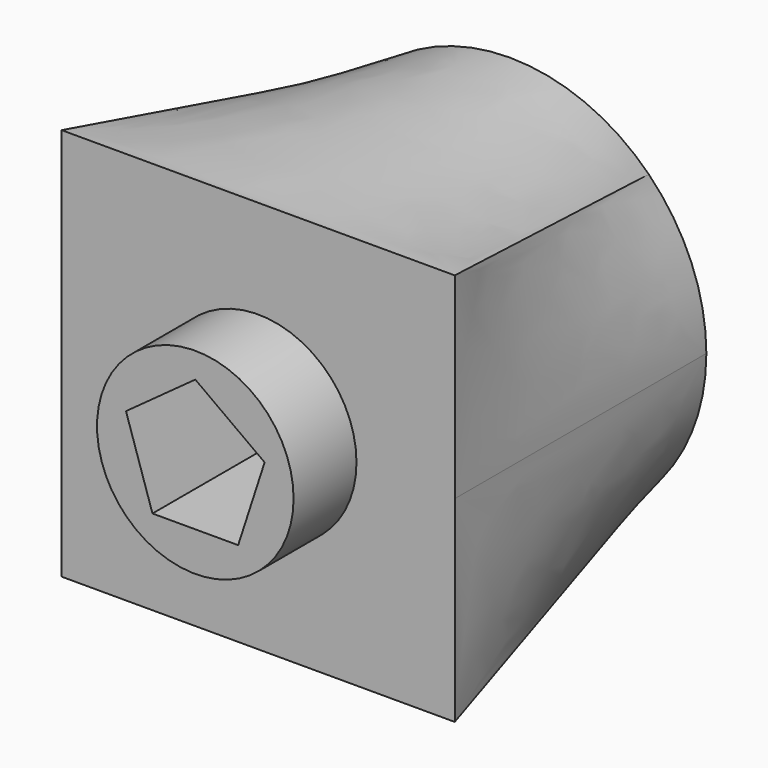
from build123d import *

# Parameters (mm, degrees)
F0_R     = 63.5
F2_W     = 127
F2_H     = 127
F4_R     = 31.75
F5_DEPTH = 25.4
F7_DEPTH = 127


with BuildPart() as f3:
    # F0 (on Front) → F3 section 0
    with BuildSketch(Plane.XZ):
        Circle(F0_R)
    # F2 (on offset) → F3 section 1
    with BuildSketch(Plane.XZ.offset(101.6)):
        Rectangle(F2_W, F2_H)
    loft()

    # F4 (on face) → F5 (join)
    with BuildSketch(Plane.XZ.offset(101.6)):
        Circle(F4_R)
    extrude(amount=F5_DEPTH)

    # F6 (on face) → F7 (cut)
    with BuildSketch(Plane.XZ.offset(127)):
        Polygon((-22.394618, 7.276453), (-13.840635, -19.05), (13.840635, -19.05), (22.394618, 7.276453), (0, 23.547095), align=None)
    extrude(amount=-F7_DEPTH, mode=Mode.SUBTRACT)


solid = f3.part
